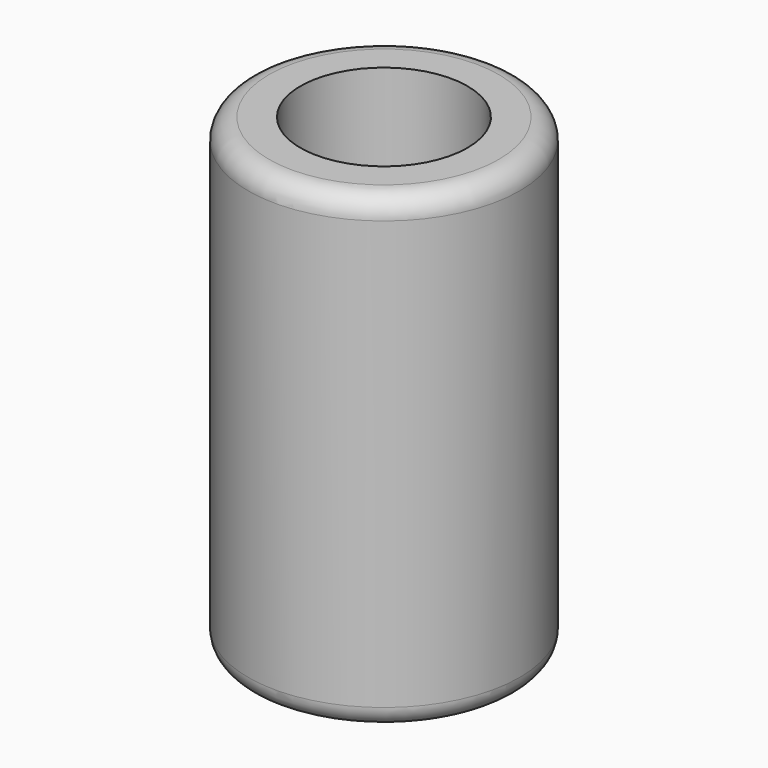
from build123d import *

# Parameters (mm, degrees)
SKETCH_R     = 6.5
PAD_DEPTH    = 22.5
SKETCH001_R  = 4
POCKET_DEPTH = 20
FILLET_R     = 1


with BuildPart() as part:
    # Sketch → Pad (new body)
    with BuildSketch(Plane.XY):
        Circle(SKETCH_R)
    extrude(amount=PAD_DEPTH)

    # Sketch001 (on Face3 of Pad) → Pocket (cut)
    with BuildSketch(Plane.XY.offset(22.5)):
        Circle(SKETCH001_R)
    extrude(amount=-POCKET_DEPTH, mode=Mode.SUBTRACT)

    # Fillet
    fillet_edges = [part.edges().sort_by_distance(p)[0] for p in [
        (6.5, 0, 11.25),
        (-6.5, 0, 0),
        (-6.5, 0, 22.5),
    ]]
    fillet(fillet_edges, radius=FILLET_R)


solid = part.part
